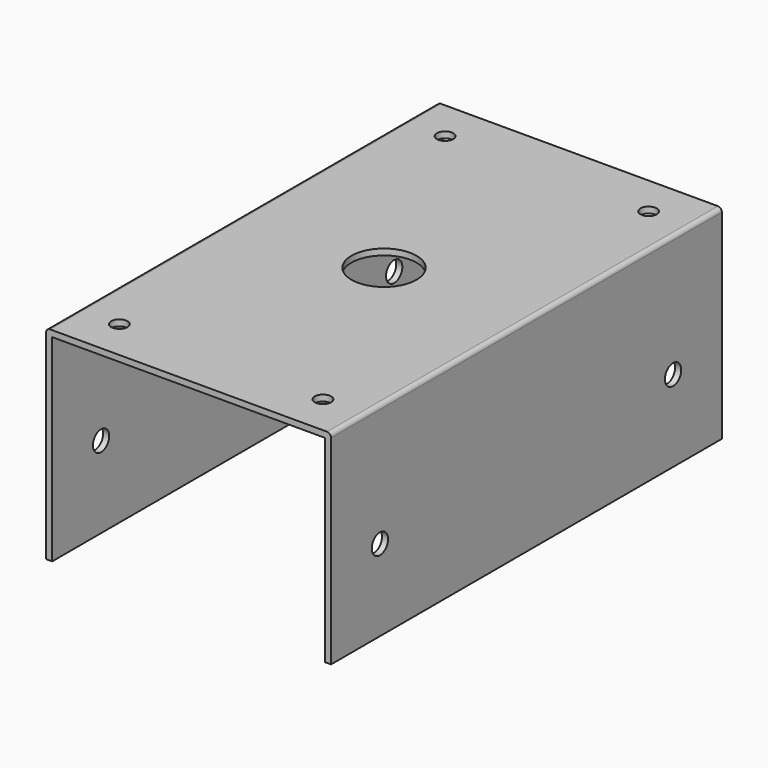
from build123d import *

# Parameters (mm, degrees)
EXTRUDE001_DEPTH                     = 120
EXTRUDE001_ONTO_SKETCH004_ROLL_ANGLE = 90
FILLET_R                             = 1
SKETCH005_R                          = 2.5
POCKET_DEPTH                         = 71
SKETCH007_R                          = 8
SKETCH007_R_2                        = 2
POCKET001_DEPTH                      = 5


with BuildPart() as part:
    # Sketch004 as drawn → Extrude001 (new)
    with BuildSketch(Plane.XY):
        Polygon((-35, 0), (-35, 50), (35, 50), (35, 0), (33.5, 0), (33.5, 48.5), (-33.5, 48.5), (-33.5, 0), align=None)
    extrude(amount=-EXTRUDE001_DEPTH)


with BuildPart() as part_1:
    # Extrude001 onto Sketch004 roll: moved
    add(part.part.rotate(Axis((0, 0, 0), (1, 0, 0)), EXTRUDE001_ONTO_SKETCH004_ROLL_ANGLE))


with BuildPart() as part_2:
    # Extrude001 onto Sketch004 placement: moved
    add(part_1.part)


with BuildPart() as part_3:
    # Extrude001 placement: moved
    add(part_2.part.moved(Location((0, -60, 0))))

    # Fillet
    fillet_edges = [part_3.edges().sort_by_distance(p)[0] for p in [
        (-35, 0, 50),
        (35, 0, 50),
    ]]
    fillet(fillet_edges, radius=FILLET_R)

    # Sketch005 → Pocket (cut)
    with BuildSketch(Plane.YZ.offset(35)):
        with Locations((-45, 20)):
            Circle(SKETCH005_R)
        with Locations((45, 20)):
            Circle(SKETCH005_R)
    extrude(amount=-POCKET_DEPTH, mode=Mode.SUBTRACT)

    # Sketch007 → Pocket001 (cut)
    with BuildSketch(Plane.XY.offset(50)):
        Circle(SKETCH007_R)
        with Locations((-25, 50)):
            Circle(SKETCH007_R_2)
        with Locations((25, 50)):
            Circle(SKETCH007_R_2)
        with Locations((-25, -50)):
            Circle(SKETCH007_R_2)
        with Locations((25, -50)):
            Circle(SKETCH007_R_2)
    extrude(amount=-POCKET001_DEPTH, mode=Mode.SUBTRACT)


solid = part_3.part
